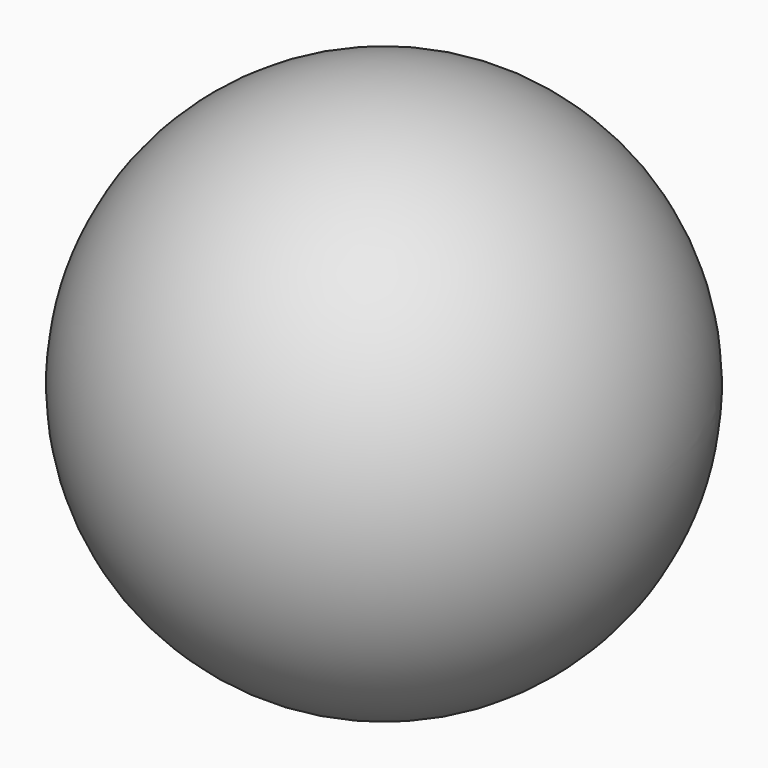
from build123d import *


with BuildPart() as f2:
    # F0 (on Top) → F2 (revolve)
    with BuildSketch(Plane.XY):
        with BuildLine():
            ThreePointArc((-55.291078, 0), (0, 55.291078), (55.291078, 0))
            Line((55.291078, 0), (59.391451, 0))
            ThreePointArc((59.391451, 0), (0, 59.391451), (-59.391451, 0))
            Line((-59.391451, 0), (-55.291078, 0))
        make_face()
    revolve(axis=Axis((34.508616, 0, 0), (1, 0, 0)))


solid = f2.part
